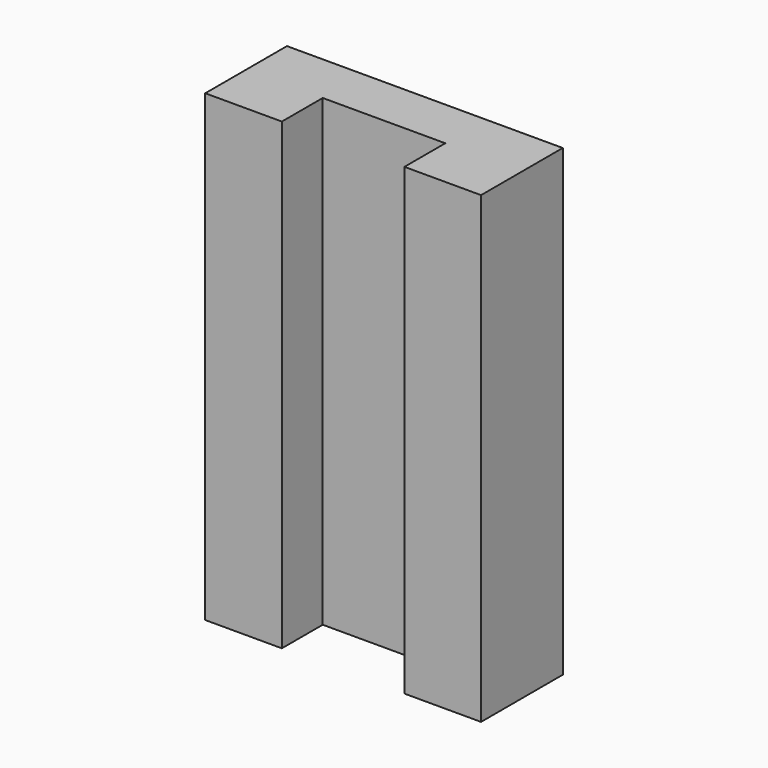
from build123d import *

# Parameters (mm, degrees)
PAD_DEPTH    = 22.7
SKETCH001_R  = 1.5
POCKET_DEPTH = 3.5


with BuildPart() as part:
    # Sketch → Pad (new body, symmetric)
    with BuildSketch(Plane.XY):
        Polygon((-6, 8), (-6, 3), (-13.5, 3), (-13.5, 13), (13.5, 13), (13.5, 3), (6, 3), (6, 8), align=None)
    extrude(amount=PAD_DEPTH, both=True)

    # Sketch001 → Pocket (cut)
    with BuildSketch(Plane.XZ.offset(-13)):
        with Locations((-10, 10)):
            Circle(SKETCH001_R)
        with Locations((10, 10)):
            Circle(SKETCH001_R)
        with Locations((10, -10)):
            Circle(SKETCH001_R)
        with Locations((-10, -10)):
            Circle(SKETCH001_R)
    extrude(amount=POCKET_DEPTH, mode=Mode.SUBTRACT)


solid = part.part
